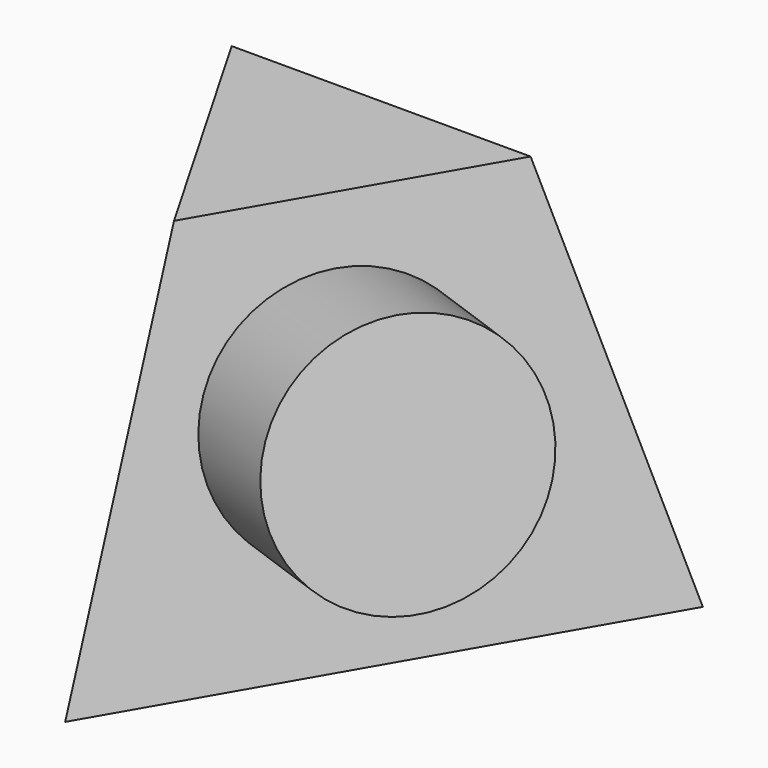
from build123d import *

# Parameters (mm, degrees)
F1_DEPTH = 50
F1_TAPER = 10
F3_R     = 16
F4_DEPTH = 17.5


with BuildPart() as f1:
    # F0 (on Top) → F1 (new body)
    with BuildSketch(Plane.XY):
        Polygon((34.6410161514, 20), (-34.6410161514, 20), (0, -40), align=None)
    extrude(amount=F1_DEPTH, taper=F1_TAPER)

    # F3 (on face) → F4 (join)
    with BuildSketch(Plane(origin=(16.7982308513, -9.6984631039, 3.4202014333), x_dir=(0.482504337, 0.8703668321, 0.0982402278), z_dir=(0.852868532, -0.4924038765, 0.1736481777))):
        with Locations((0, 23.3377951712)):
            Circle(F3_R)
    extrude(amount=F4_DEPTH)


solid = f1.part
